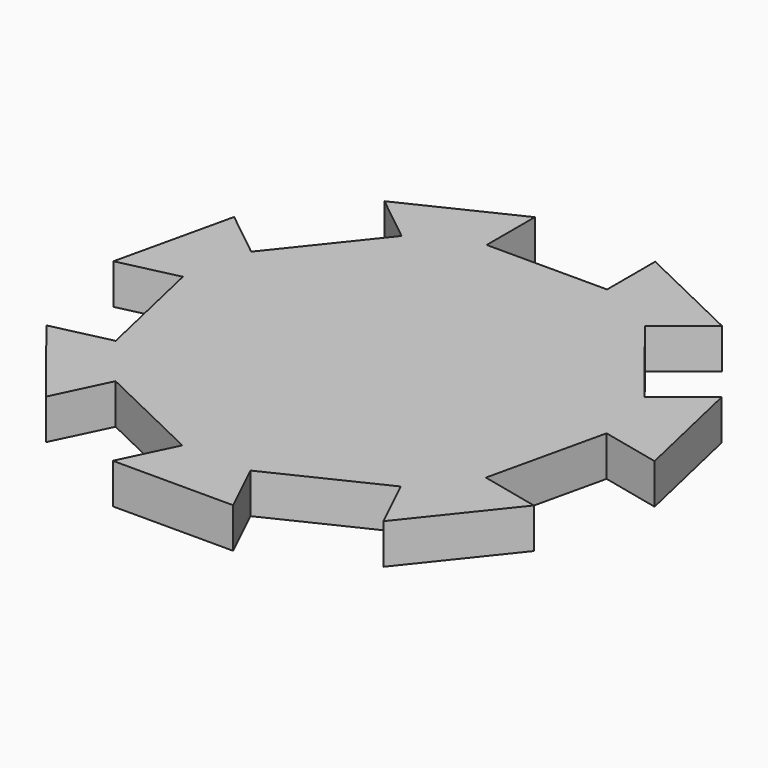
from build123d import *

# Parameters (mm, degrees)
F1_DEPTH = 2.116667


with BuildPart() as f1:
    # F0 (on Top) → F1 (new body, symmetric)
    with BuildSketch(Plane.XY):
        Polygon((-6.35, 21.471168), (-6.35, 27.821168), (-17.792305, 22.310844), (-12.827675, 18.351684), (-20.745995, 8.422424), (-25.710625, 12.381584), (-28.536641, 0), (-22.345849, 1.413008), (-19.519833, -10.968577), (-25.710625, -12.381584), (-17.792305, -22.310844), (-15.037143, -16.589692), (-3.594838, -22.100015), (-6.35, -27.821168), (6.35, -27.821168), (3.594838, -22.100015), (15.037143, -16.589692), (17.792305, -22.310844), (25.710625, -12.381584), (19.519833, -10.968577), (22.345849, 1.413008), (28.536641, 0), (25.710625, 12.381584), (20.745995, 8.422424), (12.827675, 18.351684), (17.792305, 22.310844), (6.35, 27.821168), (6.35, 21.471168), align=None)
    extrude(amount=F1_DEPTH, both=True)


solid = f1.part
